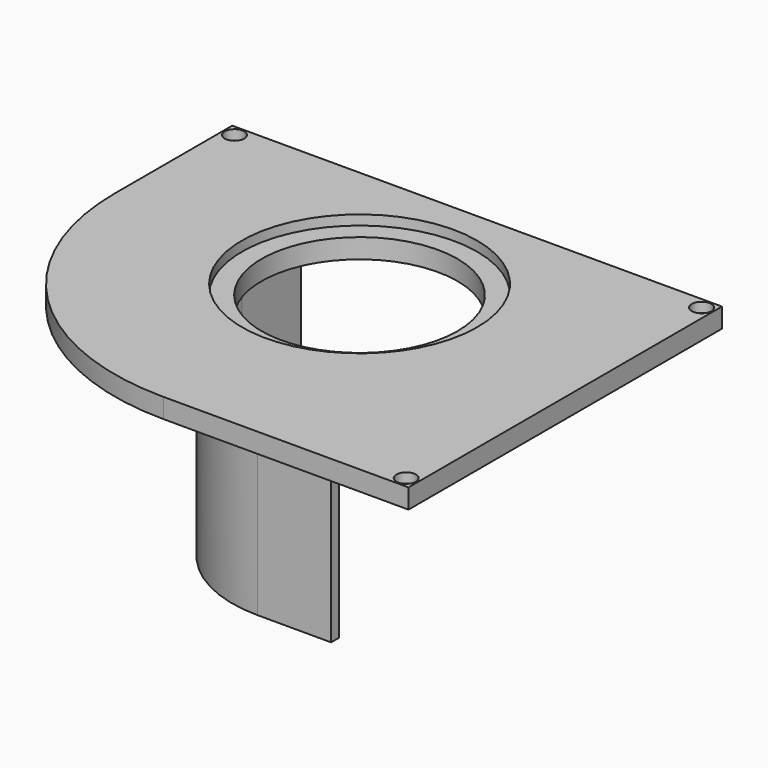
from build123d import *

# Parameters (mm, degrees)
PAD012_DEPTH    = 4
PAD013_DEPTH    = 45
PAD014_DEPTH    = 2
SKETCH043_R     = 20
POCKET021_DEPTH = 6
SKETCH044_R     = 24
POCKET022_DEPTH = 2
SKETCH052_R     = 2
POCKET025_DEPTH = 2
SKETCH053_R     = 1
POCKET026_DEPTH = 2


with BuildPart() as part:
    # Sketch036 (on Face1 of CopyPad006) → Pad012 (new body)
    with BuildSketch(Plane.XY.offset(58)):
        with BuildLine():
            Line((0, -50), (50, -50))
            Line((50, -50), (50, 30))
            Line((50, 30), (-50, 30))
            Line((-50, 30), (-50, 0))
            ThreePointArc((-50, 0), (-35.3553390593, -35.3553390593), (0, -50))
        make_face()
    extrude(amount=PAD012_DEPTH)

    # Sketch037 (on Face6 of Pad012) → Pad013 (join)
    with BuildSketch(Plane(origin=(0, 0, 58), x_dir=(1, 0, 0), z_dir=(0, 0, -1))):
        with BuildLine():
            ThreePointArc((0, 26), (-18.3847763109, 18.3847763108), (-26, 0))
            Line((-26, -15), (-26, 0))
            Line((-24, -15), (-26, -15))
            Line((-24, 0), (-24, -15))
            ThreePointArc((0, 24), (-16.9705627485, 16.9705627485), (-24, 0))
            Line((0, 24), (15, 24))
            Line((15, 24), (15, 26))
            Line((15, 26), (0, 26))
        make_face()
    extrude(amount=PAD013_DEPTH)

    # Sketch038 (on Face4 of Pad013) → Pad014 (join)
    with BuildSketch(Plane(origin=(0, 0, 58), x_dir=(1, 0, 0), z_dir=(0, 0, -1))):
        with BuildLine():
            Line((0, 46), (46, 46))
            Line((46, 46), (46, -26))
            Line((46, -26), (-46, -26))
            Line((-46, -26), (-46, 0))
            ThreePointArc((0, 46), (-32.5269119346, 32.5269119346), (-46, 0))
        make_face()
    extrude(amount=PAD014_DEPTH)

    # Sketch043 (on Face5 of Pad014) → Pocket021 (cut)
    with BuildSketch(Plane.XY.offset(62)):
        Circle(SKETCH043_R)
    extrude(amount=-POCKET021_DEPTH, mode=Mode.SUBTRACT)

    # Sketch044 (on Face5 of Pocket021) → Pocket022 (cut)
    with BuildSketch(Plane.XY.offset(62)):
        Circle(SKETCH044_R)
    extrude(amount=-POCKET022_DEPTH, mode=Mode.SUBTRACT)

    # Sketch052 (on Face5 of Pocket022) → Pocket025 (cut)
    with BuildSketch(Plane.XY.offset(62)):
        with Locations((-47.7, 27.7)):
            Circle(SKETCH052_R)
        with Locations((47.7, 27.7)):
            Circle(SKETCH052_R)
        with Locations((47.7, -47.71)):
            Circle(SKETCH052_R)
    extrude(amount=-POCKET025_DEPTH, mode=Mode.SUBTRACT)

    # Sketch053 (on Face21 of Pocket025) → Pocket026 (cut)
    with BuildSketch(Plane.XY.offset(60)):
        with Locations((-47.7, 27.7)):
            Circle(SKETCH053_R)
        with Locations((47.7, 27.7)):
            Circle(SKETCH053_R)
        with Locations((47.7, -47.71)):
            Circle(SKETCH053_R)
    extrude(amount=-POCKET026_DEPTH, mode=Mode.SUBTRACT)


solid = part.part
